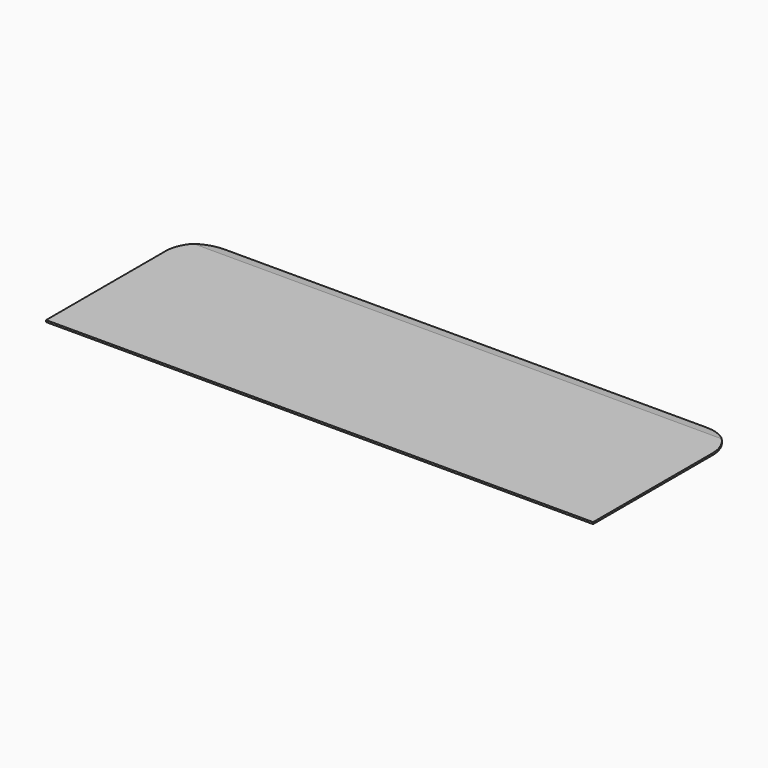
from build123d import *

# Parameters (mm, degrees)
F0_W     = 30
F0_H     = 10
F1_DEPTH = 0.1
F3_DEPTH = 57.2
F4_R     = 1.8


with BuildPart() as f1:
    # F0 (on Top) → F1 (new body)
    with BuildSketch(Plane.XY):
        with Locations((3.724603, 1.00229)):
            Rectangle(F0_W, F0_H)
    extrude(amount=F1_DEPTH)

    # F2 (on face) → F3 (cut)
    with BuildSketch(Plane.YZ.offset(18.724603)):
        Polygon((4.141626, 0.286113), (6.00229, 0.026249), (6.009877, 0.025722), (7.013663, 0.1), (6.508347, 0.436859), align=None)
    extrude(amount=-F3_DEPTH, mode=Mode.SUBTRACT)

    # F4
    f4_edges = [f1.edges().sort_by_distance(p)[0] for p in [
        (18.724603, 6.00229, 0.013124),
        (-11.275397, 6.00229, 0.013124),
    ]]
    fillet(f4_edges, radius=F4_R)


solid = f1.part
